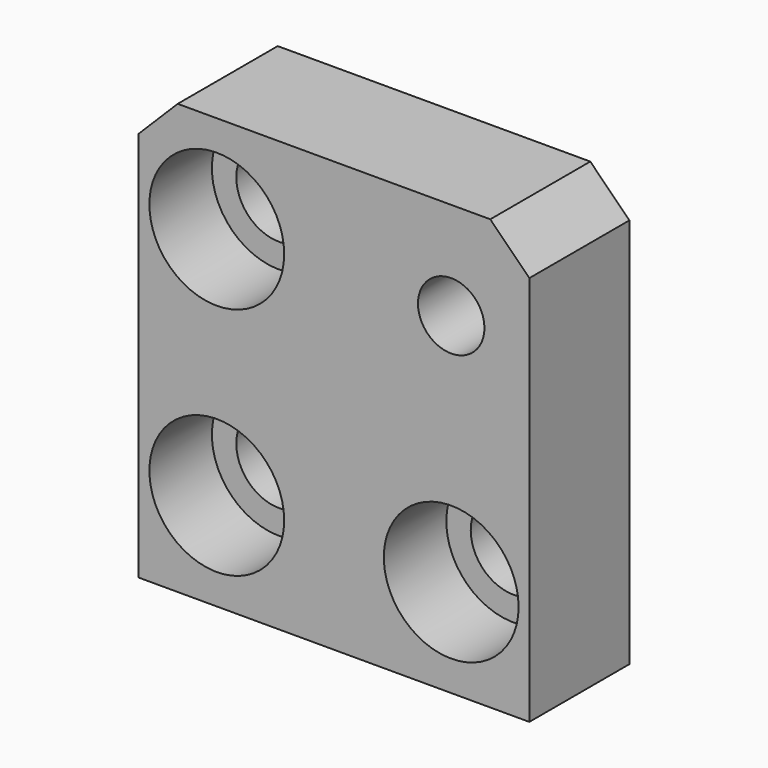
from build123d import *

# Parameters (mm, degrees)
F0_W           = 50
F0_H           = 55
F1_DEPTH       = 16
F3_D           = 11
F3_CBORE_D     = 17.25
F3_CBORE_DEPTH = 10
F5_D           = 8.5
F6_SIZE        = 5


with BuildPart() as f1:
    # F0 (on Front) → F1 (new body)
    with BuildSketch(Plane.XZ):
        Rectangle(F0_W, F0_H)
    extrude(amount=-F1_DEPTH)

    # F3 (through all)
    with Locations(Plane.XZ):
        with Locations((-15, 15), (-15, -15), (15, -15)):
            CounterBoreHole(F3_D / 2, F3_CBORE_D / 2, F3_CBORE_DEPTH)

    # F5 (through all)
    with Locations(Plane.XZ):
        with Locations((15, 15)):
            Hole(F5_D / 2)

    # F6
    f6_edges = [f1.edges().sort_by_distance(p)[0] for p in [
        (-25, 8, 27.5),
        (25, 8, 27.5),
    ]]
    chamfer(f6_edges, length=F6_SIZE)


solid = f1.part
